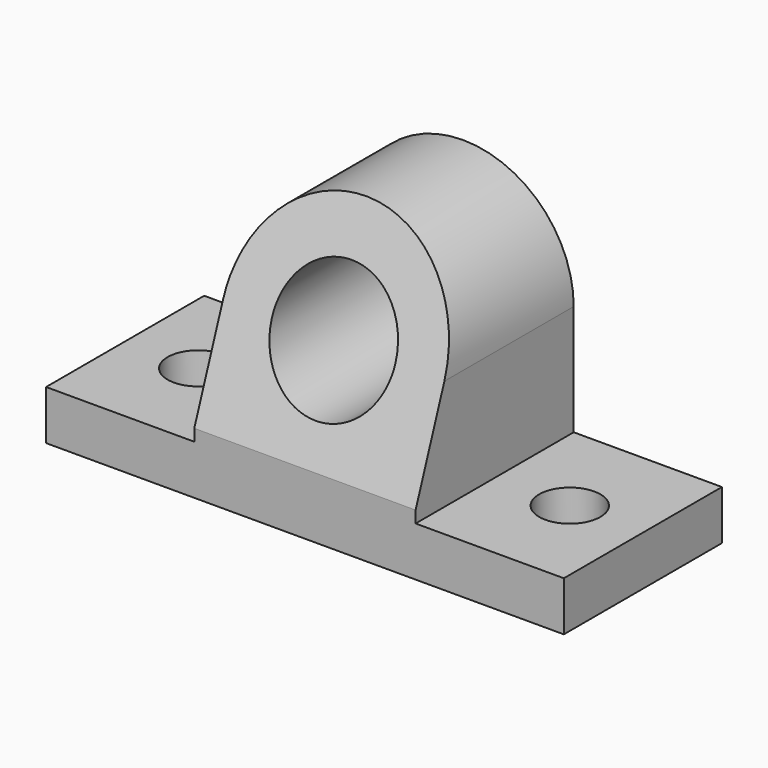
from build123d import *

# Parameters (mm, degrees)
F0_R     = 7.874
F1_DEPTH = 152.4
F2_R     = 15.875
F3_DEPTH = 173.736
F5_DEPTH = 186.436


with BuildPart() as f1:
    # F0 (on Top) → F1 (new body)
    with BuildSketch(Plane.XY):
        Polygon((0, 50.8), (0, 0), (133.096, 0), (133.096, 50.8), (66.548, 50.8), align=None)
        with Locations((18.796, 25.4)):
            Circle(F0_R, mode=Mode.SUBTRACT)
        with Locations((114.3, 25.4)):
            Circle(F0_R, mode=Mode.SUBTRACT)
    extrude(amount=F1_DEPTH)

    # F2 (on face) → F3 (cut)
    with BuildSketch(Plane.XZ):
        with BuildLine():
            Line((0, 152.4), (0, 12.7))
            Line((0, 12.7), (38.1, 12.7))
            Line((38.1, 12.7), (38.1, 15.748))
            Line((38.1, 15.748), (38.1, 41.148))
            ThreePointArc((38.1, 41.148), (66.548, 69.596), (94.996, 41.148))
            Line((94.996, 41.148), (94.996, 15.748))
            Line((94.996, 15.748), (94.996, 12.7))
            Line((94.996, 12.7), (133.096, 12.7))
            Line((133.096, 12.7), (133.096, 152.4))
            Line((133.096, 152.4), (0, 152.4))
        make_face()
        with Locations((66.548, 41.148)):
            Circle(F2_R)
    extrude(amount=-F3_DEPTH, mode=Mode.SUBTRACT)

    # F4 (on Right) → F5 (cut)
    with BuildSketch(Plane.YZ):
        Polygon((0, 77.27585), (0, 15.748), (22.439078, 77.39886), align=None)
    extrude(amount=F5_DEPTH, mode=Mode.SUBTRACT)


solid = f1.part
